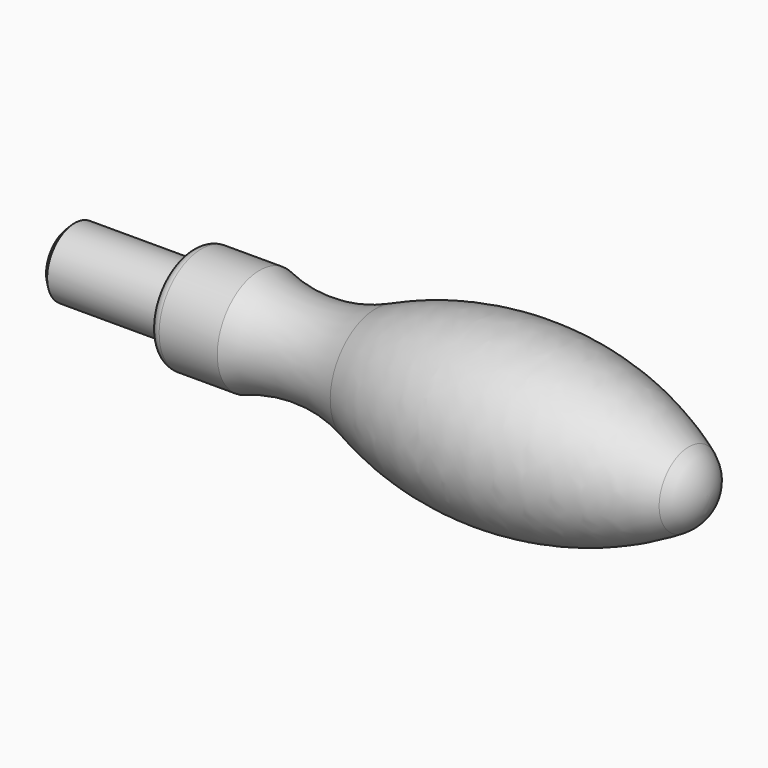
from build123d import *

# Parameters (mm, degrees)
F2_R     = 6.5
F3_DEPTH = 23
F4_SIZE  = 1
F5_R     = 2


with BuildPart() as f1:
    # F0 (on Front) → F1 (revolve)
    with BuildSketch(Plane.XZ):
        with BuildLine():
            Line((98.207469, 0), (0, 0))
            Line((0, 0), (0, -10))
            Line((0, -10), (13, -10))
            ThreePointArc((13, -10), (24.08707, -8.287742), (35.019375, -10.805614))
            ThreePointArc((35.019375, -10.805614), (65.095188, -16.160515), (94.245718, -7.02399))
            ThreePointArc((94.245718, -7.02399), (97.148746, -4.032118), (98.207469, 0))
        make_face()
    revolve(axis=Axis((-34.182759, 0, 0), (1, 0, 0)))

    # F2 (on face) → F3 (join)
    with BuildSketch(Plane(origin=(0, 0, 0), x_dir=(0, -1, 0), z_dir=(-1, 0, 0))):
        Circle(F2_R)
    extrude(amount=F3_DEPTH)

    # F4
    f4_edges = [f1.edges().sort_by_distance(p)[0] for p in [
        (-23, 6.5, 0),
    ]]
    chamfer(f4_edges, length=F4_SIZE)

    # F5
    f5_edges = [f1.edges().sort_by_distance(p)[0] for p in [
        (0, 0, 10),
    ]]
    fillet(f5_edges, radius=F5_R)


solid = f1.part
